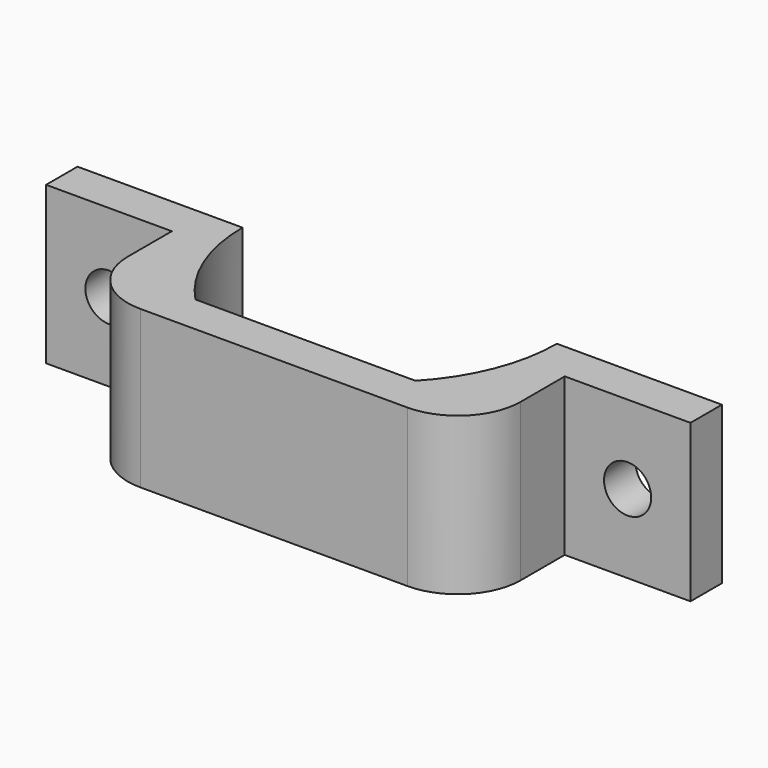
from build123d import *

# Parameters (mm, degrees)
PAD_DEPTH    = 10
SKETCH001_W  = 2.5
SKETCH001_H  = 10
PAD001_DEPTH = 8
SKETCH002_R  = 1.5
POCKET_DEPTH = 2.501
FILLET_R     = 4


with BuildPart() as part:
    # Sketch → Pad (new body)
    with BuildSketch(Plane.XY):
        with BuildLine():
            ThreePointArc((10.5, 12.5), (11.277816, 8.461126), (13.5, 5))
            Line((13.5, 5), (27.5, 5))
            ThreePointArc((27.5, 5), (29.722184, 8.461126), (30.5, 12.5))
            Line((33, 12.5), (30.5, 12.5))
            Line((33, 2.5), (33, 12.5))
            Line((8, 2.5), (33, 2.5))
            Line((8, 10), (8, 2.5))
            Line((0, 10), (8, 10))
            Line((0, 12.5), (0, 10))
            Line((8, 12.5), (0, 12.5))
            Line((10.5, 12.5), (8, 12.5))
        make_face()
    extrude(amount=PAD_DEPTH)

    # Sketch001 (on Face5 of Pad) → Pad001 (join)
    with BuildSketch(Plane.YZ.offset(33)):
        with Locations((11.25, 5)):
            Rectangle(SKETCH001_W, SKETCH001_H)
    extrude(amount=PAD001_DEPTH)

    # Sketch002 (on Face10 of Pad001) → Pocket (cut, through all)
    with BuildSketch(Plane.XZ.offset(-10)):
        with Locations((4, 5)):
            Circle(SKETCH002_R)
        with Locations((37, 5)):
            Circle(SKETCH002_R)
    extrude(amount=-POCKET_DEPTH, mode=Mode.SUBTRACT)

    # Fillet
    fillet_edges = [part.edges().sort_by_distance(p)[0] for p in [
        (8, 2.5, 5),
        (33, 2.5, 5),
    ]]
    fillet(fillet_edges, radius=FILLET_R)


solid = part.part
